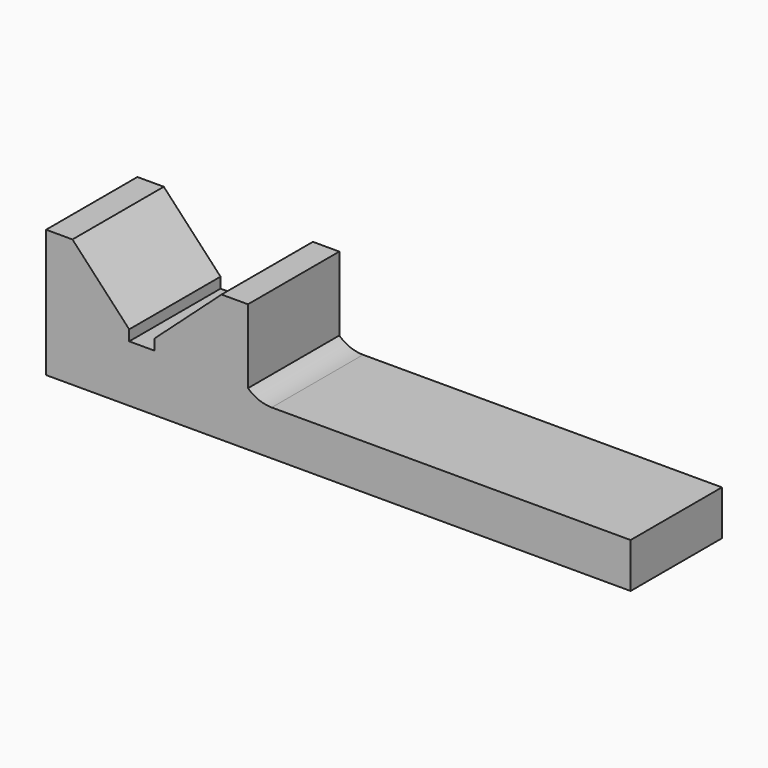
from build123d import *

# Parameters (mm, degrees)
F1_DEPTH = 25.4


with BuildPart() as f1:
    # F0 (on Front) → F1 (new body)
    with BuildSketch(Plane.XZ):
        with BuildLine():
            Line((-62.686734, -47.271963), (67.384571, -47.271963))
            Line((67.384571, -47.271963), (67.384571, -37.289064))
            Line((67.384571, -37.289064), (-12.478624, -37.289064))
            ThreePointArc((-12.478624, -37.289064), (-15.313944, -36.757155), (-17.763687, -35.233762))
            Line((-17.763687, -35.233762), (-17.763687, -18.79134))
            Line((-17.763687, -18.79134), (-23.635982, -18.79134))
            Line((-23.635982, -18.79134), (-38.610332, -32.297615))
            Line((-38.610332, -32.297615), (-38.610332, -34.646533))
            Line((-38.610332, -34.646533), (-44.18901, -34.646533))
            Line((-44.18901, -34.646533), (-44.18901, -32.297615))
            Line((-44.18901, -32.297615), (-56.81444, -18.79134))
            Line((-56.81444, -18.79134), (-62.686734, -18.79134))
            Line((-62.686734, -18.79134), (-62.686734, -47.271963))
        make_face()
    extrude(amount=F1_DEPTH)


solid = f1.part
